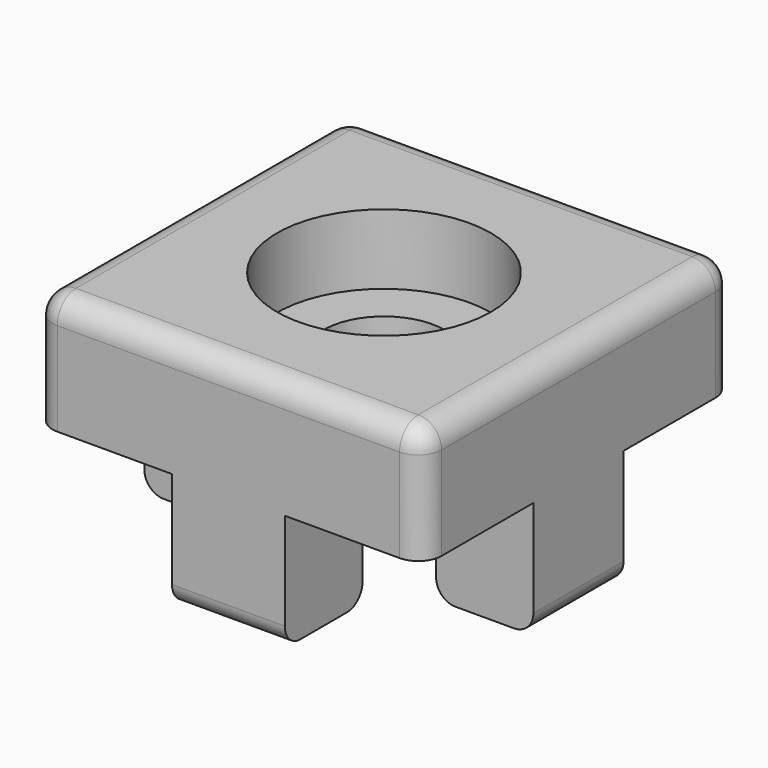
from build123d import *

# Parameters (mm, degrees)
SKETCH_W        = 20
SKETCH_H        = 20
PAD_DEPTH       = 6
SKETCH001_R     = 5.5
POCKET_DEPTH    = 3.6
SKETCH002_R     = 3.1
POCKET001_DEPTH = 5
SKETCH003_W     = 5.8
SKETCH003_H     = 5
PAD001_DEPTH    = 6
SKETCH004_W     = 5
SKETCH004_H     = 5.8
PAD002_DEPTH    = 6
SKETCH005_W     = 5.8
SKETCH005_H     = 5
PAD003_DEPTH    = 6
SKETCH006_W     = 5
SKETCH006_H     = 5.8
PAD004_DEPTH    = 6
FILLET_R        = 1.2
FILLET001_R     = 1.2
FILLET002_R     = 1.2
FILLET003_R     = 1.2
FILLET004_R     = 1
FILLET005_R     = 1
FILLET006_R     = 1
FILLET007_R     = 1
FILLET008_R     = 1
FILLET009_R     = 1
FILLET010_R     = 1
FILLET011_R     = 1


with BuildPart() as part:
    # Sketch → Pad (new body)
    with BuildSketch(Plane.XY):
        with Locations((10, 10)):
            Rectangle(SKETCH_W, SKETCH_H)
    extrude(amount=PAD_DEPTH)

    # Sketch001 → Pocket (cut)
    with BuildSketch(Plane.XY.offset(6)):
        with Locations((10, 10)):
            Circle(SKETCH001_R)
    extrude(amount=-POCKET_DEPTH, mode=Mode.SUBTRACT)

    # Sketch002 → Pocket001 (cut)
    with BuildSketch(Plane.XY.offset(2.4)):
        with Locations((10, 10)):
            Circle(SKETCH002_R)
    extrude(amount=-POCKET001_DEPTH, mode=Mode.SUBTRACT)

    # Sketch003 → Pad001 (new body)
    with BuildSketch(Plane(origin=(0, 0, 0), x_dir=(1, 0, 0), z_dir=(0, 0, -1))):
        with Locations((10, -2.5)):
            Rectangle(SKETCH003_W, SKETCH003_H)
    extrude(amount=PAD001_DEPTH)

    # Sketch004 → Pad002 (new body)
    with BuildSketch(Plane(origin=(0, 0, 0), x_dir=(1, 0, 0), z_dir=(0, 0, -1))):
        with Locations((17.5, -10)):
            Rectangle(SKETCH004_W, SKETCH004_H)
    extrude(amount=PAD002_DEPTH)

    # Sketch005 → Pad003 (new body)
    with BuildSketch(Plane(origin=(0, 0, 0), x_dir=(1, 0, 0), z_dir=(0, 0, -1))):
        with Locations((10, -17.5)):
            Rectangle(SKETCH005_W, SKETCH005_H)
    extrude(amount=PAD003_DEPTH)

    # Sketch006 → Pad004 (new body)
    with BuildSketch(Plane(origin=(0, 0, 0), x_dir=(1, 0, 0), z_dir=(0, 0, -1))):
        with Locations((2.5, -10)):
            Rectangle(SKETCH006_W, SKETCH006_H)
    extrude(amount=PAD004_DEPTH)

    # Fillet
    fillet_edges = [part.edges().sort_by_distance(p)[0] for p in [
        (10, 20, 6),
    ]]
    fillet(fillet_edges, radius=FILLET_R)

    # Fillet001
    fillet001_edges = [part.edges().sort_by_distance(p)[0] for p in [
        (10, 0, 6),
    ]]
    fillet(fillet001_edges, radius=FILLET001_R)

    # Fillet002
    fillet002_edges = [part.edges().sort_by_distance(p)[0] for p in [
        (0, 10, 6),
    ]]
    fillet(fillet002_edges, radius=FILLET002_R)

    # Fillet003
    fillet003_edges = [part.edges().sort_by_distance(p)[0] for p in [
        (20, 10, 6),
    ]]
    fillet(fillet003_edges, radius=FILLET003_R)

    # Fillet004
    fillet004_edges = [part.edges().sort_by_distance(p)[0] for p in [
        (15, 10, -6),
    ]]
    fillet(fillet004_edges, radius=FILLET004_R)

    # Fillet005
    fillet005_edges = [part.edges().sort_by_distance(p)[0] for p in [
        (10, 5, -6),
    ]]
    fillet(fillet005_edges, radius=FILLET005_R)

    # Fillet006
    fillet006_edges = [part.edges().sort_by_distance(p)[0] for p in [
        (10, 15, -6),
    ]]
    fillet(fillet006_edges, radius=FILLET006_R)

    # Fillet007
    fillet007_edges = [part.edges().sort_by_distance(p)[0] for p in [
        (5, 10, -6),
    ]]
    fillet(fillet007_edges, radius=FILLET007_R)

    # Fillet008
    fillet008_edges = [part.edges().sort_by_distance(p)[0] for p in [
        (20, 10, -6),
    ]]
    fillet(fillet008_edges, radius=FILLET008_R)

    # Fillet009
    fillet009_edges = [part.edges().sort_by_distance(p)[0] for p in [
        (10, 0, -6),
    ]]
    fillet(fillet009_edges, radius=FILLET009_R)

    # Fillet010
    fillet010_edges = [part.edges().sort_by_distance(p)[0] for p in [
        (10, 20, -6),
    ]]
    fillet(fillet010_edges, radius=FILLET010_R)

    # Fillet011
    fillet011_edges = [part.edges().sort_by_distance(p)[0] for p in [
        (0, 10, -6),
    ]]
    fillet(fillet011_edges, radius=FILLET011_R)


solid = part.part
